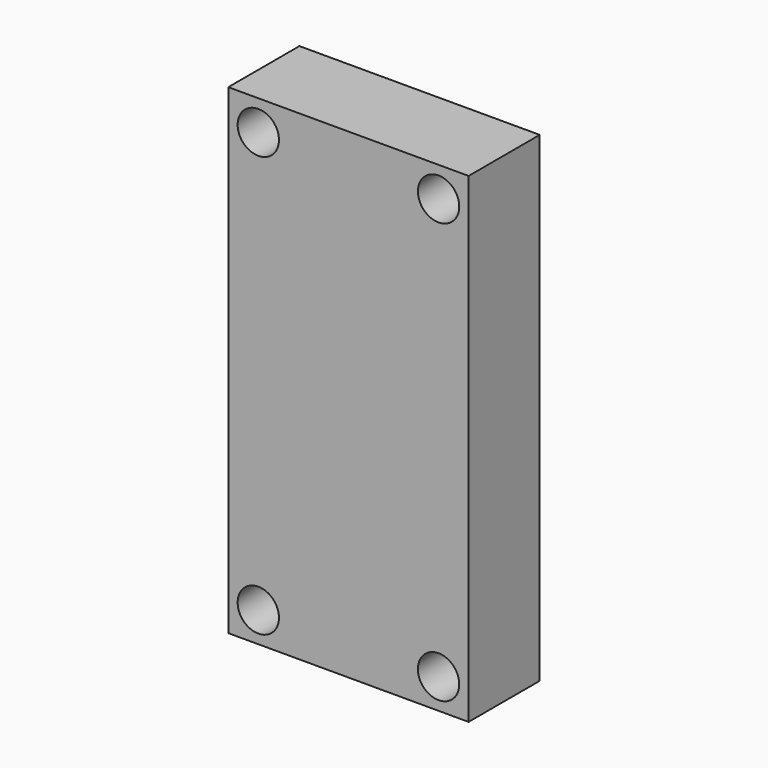
from build123d import *

# Parameters (mm, degrees)
F0_W     = 25.4
F0_H     = 50.8
F1_DEPTH = 9.398
F2_D     = 4.3688


with BuildPart() as f1:
    # F0 (on Front) → F1 (new body)
    with BuildSketch(Plane.XZ):
        Rectangle(F0_W, F0_H)
    extrude(amount=-F1_DEPTH)

    # F2 (through all)
    with Locations(Plane.XZ):
        with Locations((-9.525, 22.225), (9.525, 22.225), (9.525, -22.225), (-9.525, -22.225)):
            Hole(F2_D / 2)


solid = f1.part
